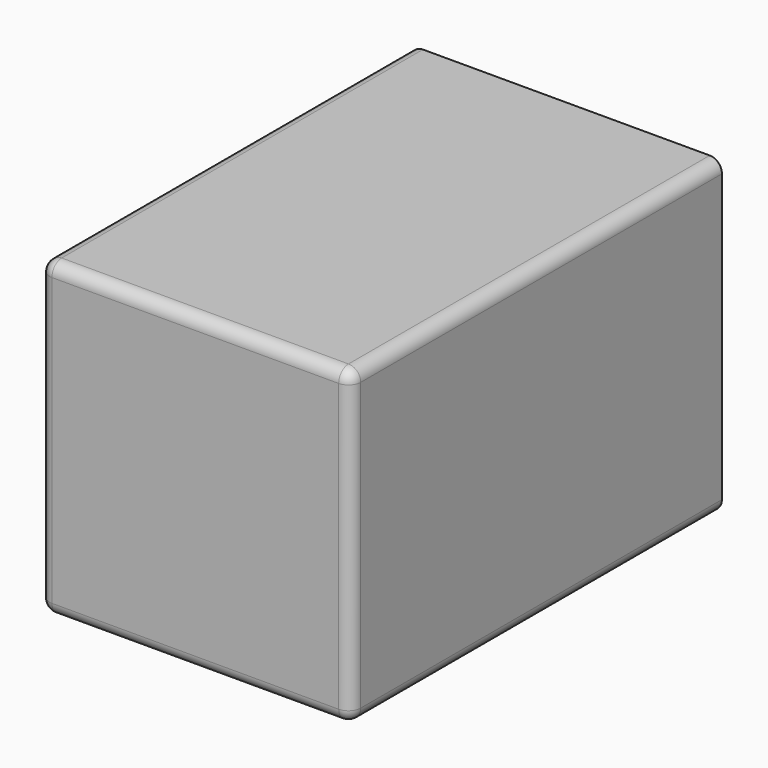
from build123d import *

# Parameters (mm, degrees)
F0_R     = 17.5
F1_DEPTH = 76
F2_DEPTH = 7
F3_R     = 2


with BuildPart() as f1:
    # F0 (on Front) → F1 (new body)
    with BuildSketch(Plane.XZ):
        with BuildLine():
            Line((23.5, 25.5), (-23.5, 25.5))
            ThreePointArc((-23.5, 25.5), (-24.9142135624, 24.9142135624), (-25.5, 23.5))
            Line((-25.5, 23.5), (-25.5, -23.5))
            ThreePointArc((-25.5, -23.5), (-24.9142135624, -24.9142135624), (-23.5, -25.5))
            Line((-23.5, -25.5), (23.5, -25.5))
            ThreePointArc((23.5, -25.5), (24.9142135624, -24.9142135624), (25.5, -23.5))
            Line((25.5, -23.5), (25.5, 23.5))
            ThreePointArc((25.5, 23.5), (24.9142135624, 24.9142135624), (23.5, 25.5))
        make_face()
        Circle(F0_R, mode=Mode.SUBTRACT)
        Circle(F0_R)
    extrude(amount=F1_DEPTH)

    # F0 (on Front) → F2 (join)
    with BuildSketch(Plane.XZ):
        Circle(F0_R)
    extrude(amount=-F2_DEPTH)

    # F3
    f3_edges = [f1.edges().sort_by_distance(p)[0] for p in [
        (25.5, -76, 0),
    ]]
    fillet(f3_edges, radius=F3_R)


solid = f1.part
